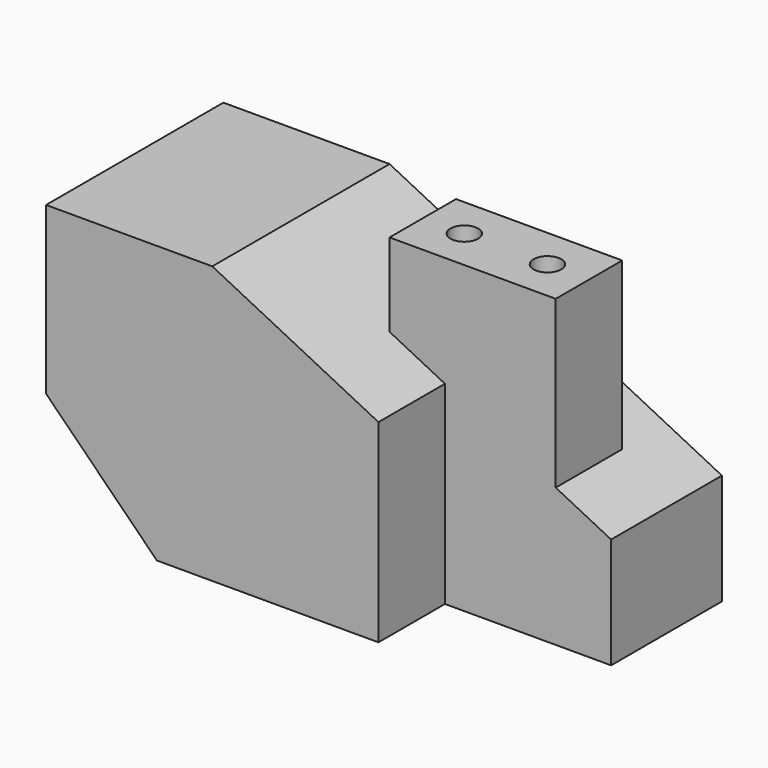
from build123d import *

# Parameters (mm, degrees)
F1_DEPTH  = 50.8
F4_DEPTH  = 31.75
F5_W      = 38.1
F5_H      = 19.05
F6_DEPTH  = 101.6
F7_W      = 38.1
F7_H      = 19.05
F8_DEPTH  = 69.85
F9_R      = 3.175
F10_DEPTH = 69.85


with BuildPart() as f1:
    # F0 (on Front) → F1 (new body)
    with BuildSketch(Plane.XZ):
        Polygon((0, 38.1), (0, 0), (25.4, -25.4), (114.3, -25.4), (114.3, 0), (76.2, 19.05), (38.1, 38.1), align=None)
    extrude(amount=-F1_DEPTH)

    # F3 (on offset) → F4 (join)
    with BuildSketch(Plane.XZ.offset(-19.05)):
        Polygon((99.421024, 6.35), (74.021024, 6.35), (74.021024, -25.4), (112.121024, -25.4), (112.121024, 0), align=None)
    extrude(amount=-F4_DEPTH)

    # F5 (on face) → F6 (cut)
    with BuildSketch(Plane(origin=(0, 0, -25.4), x_dir=(1, 0, 0), z_dir=(0, 0, -1))):
        with Locations((95.25, -9.525)):
            Rectangle(F5_W, F5_H)
    extrude(amount=-F6_DEPTH, mode=Mode.SUBTRACT)

    # F7 (on face) → F8 (join)
    with BuildSketch(Plane(origin=(0, 0, -25.4), x_dir=(1, 0, 0), z_dir=(0, 0, -1))):
        with Locations((82.55, -28.575)):
            Rectangle(F7_W, F7_H)
    extrude(amount=-F8_DEPTH)

    # F9 (on face) → F10 (cut)
    with BuildSketch(Plane.XY.offset(44.45)):
        with Locations((73.025, 28.575)):
            Circle(F9_R)
        with Locations((92.075, 28.575)):
            Circle(F9_R)
    extrude(amount=-F10_DEPTH, mode=Mode.SUBTRACT)


solid = f1.part
